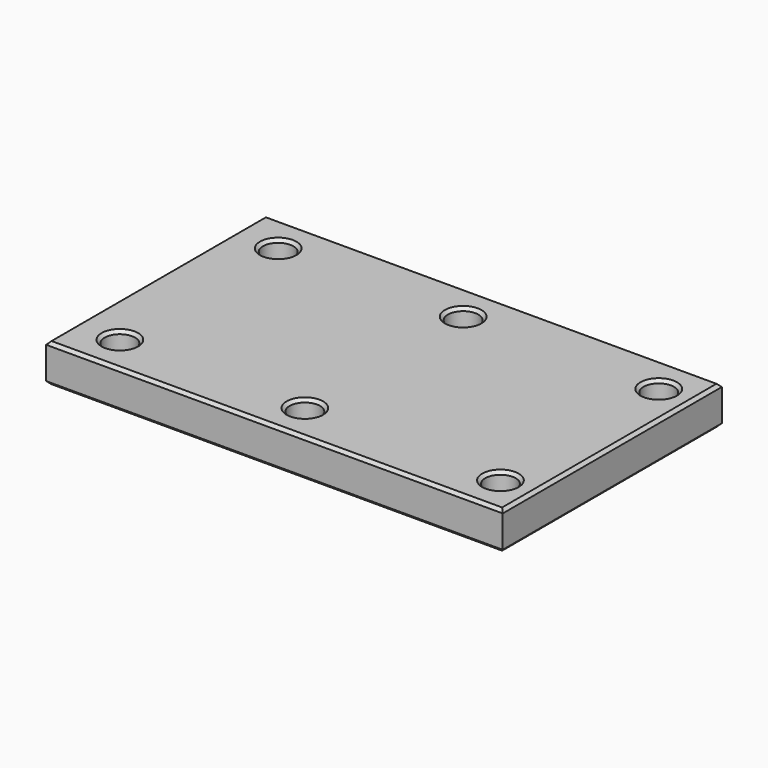
from build123d import *

# Parameters (mm, degrees)
F0_W     = 300
F0_H     = 180
F0_R     = 10
F1_DEPTH = 25
F2_SIZE  = 2


with BuildPart() as f1:
    # F0 (on Top) → F1 (new body)
    with BuildSketch(Plane.XY):
        Rectangle(F0_W, F0_H)
        with Locations((-121.507466, -65)):
            Circle(F0_R, mode=Mode.SUBTRACT)
        with Locations((0, -65)):
            Circle(F0_R, mode=Mode.SUBTRACT)
        with Locations((128.492534, -65)):
            Circle(F0_R, mode=Mode.SUBTRACT)
        with Locations((-121.507466, 65)):
            Circle(F0_R, mode=Mode.SUBTRACT)
        with Locations((0, 65)):
            Circle(F0_R, mode=Mode.SUBTRACT)
        with Locations((128.492534, 65)):
            Circle(F0_R, mode=Mode.SUBTRACT)
    extrude(amount=F1_DEPTH)

    # F2
    f2_edges = [f1.edges().sort_by_distance(p)[0] for p in [
        (150, 0, 25),
        (0, 90, 25),
        (-150, 0, 25),
        (0, -90, 25),
        (-131.507466, -65, 25),
        (-10, -65, 25),
        (118.492534, -65, 25),
        (-131.507466, 65, 25),
        (-10, 65, 25),
        (118.492534, 65, 25),
        (150, 0, 0),
        (0, 90, 0),
        (-150, 0, 0),
        (0, -90, 0),
        (-131.507466, -65, 0),
        (-10, -65, 0),
        (118.492534, -65, 0),
        (-131.507466, 65, 0),
        (-10, 65, 0),
        (118.492534, 65, 0),
    ]]
    chamfer(f2_edges, length=F2_SIZE)


solid = f1.part
